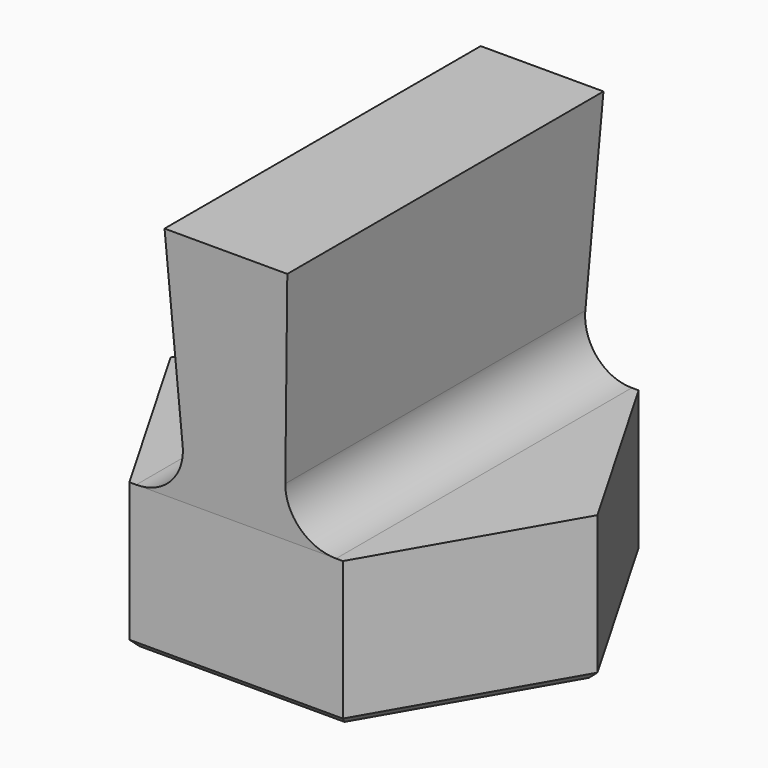
from build123d import *

# Parameters (mm, degrees)
F1_DEPTH = 6
F2_W     = 4
F2_H     = 15.2
F3_DEPTH = 10
F3_TAPER = -3
F4_R     = 2
F5_SIZE  = 0.3


with BuildPart() as f1:
    # F0 (on Top) → F1 (new body)
    with BuildSketch(Plane.XY):
        Polygon((4.3878620458, -7.6), (8.7757240917, 0), (4.3878620458, 7.6), (-4.3878620458, 7.6), (-8.7757240917, 0), (-4.3878620458, -7.6), align=None)
    extrude(amount=F1_DEPTH)

    # F2 (on face) → F3 (join)
    with BuildSketch(Plane.XY.offset(6)):
        Rectangle(F2_W, F2_H)
    extrude(amount=F3_DEPTH, taper=F3_TAPER)

    # F4
    f4_edges = [f1.edges().sort_by_distance(p)[0] for p in [
        (2, 0, 6),
        (-2, 0, 6),
    ]]
    fillet(f4_edges, radius=F4_R)

    # F5
    f5_edges = [f1.edges().sort_by_distance(p)[0] for p in [
        (-6.581793, -3.8, 0),
        (0, -7.6, 0),
        (6.581793, -3.8, 0),
        (6.581793, 3.8, 0),
        (0, 7.6, 0),
        (-6.581793, 3.8, 0),
    ]]
    chamfer(f5_edges, length=F5_SIZE)


solid = f1.part
